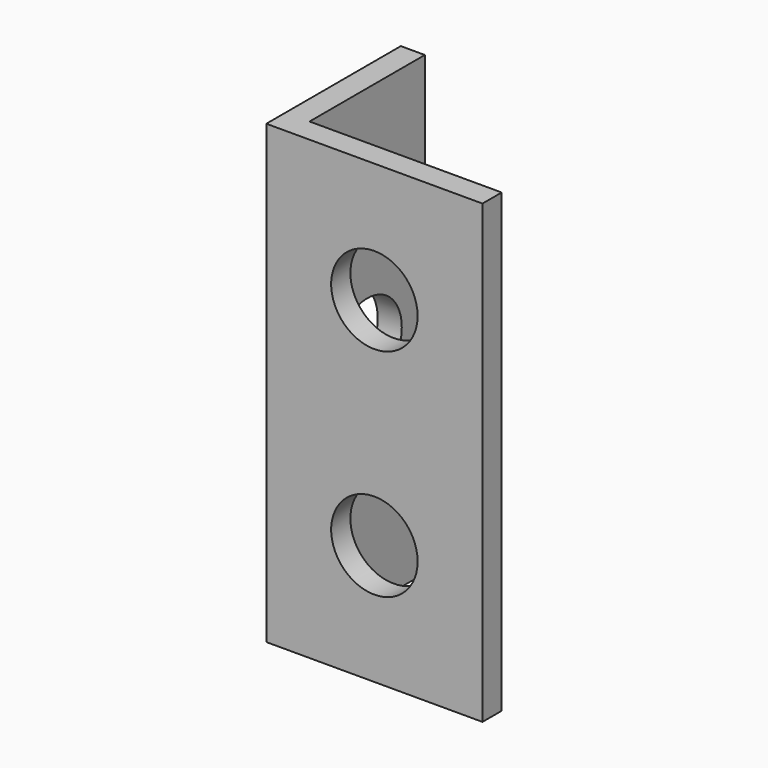
from build123d import *

# Parameters (mm, degrees)
F1_DEPTH = 95
F2_R     = 9
F3_DEPTH = 25
F4_R     = 9
F5_DEPTH = 25


with BuildPart() as f1:
    # F0 (on Top) → F1 (new body)
    with BuildSketch(Plane.XY):
        Polygon((0, 0), (0, 30), (-5, 30), (-5, -5), (40, -5), (40, 0), align=None)
    extrude(amount=F1_DEPTH)

    # F2 (on face) → F3 (cut)
    with BuildSketch(Plane.XZ.offset(5)):
        with Locations((17.5, 70)):
            Circle(F2_R)
        with Locations((17.5, 25)):
            Circle(F2_R)
    extrude(amount=-F3_DEPTH, mode=Mode.SUBTRACT)

    # F4 (on face) → F5 (cut)
    with BuildSketch(Plane.YZ):
        with Locations((15, 47.5)):
            Circle(F4_R)
    extrude(amount=-F5_DEPTH, mode=Mode.SUBTRACT)


solid = f1.part
